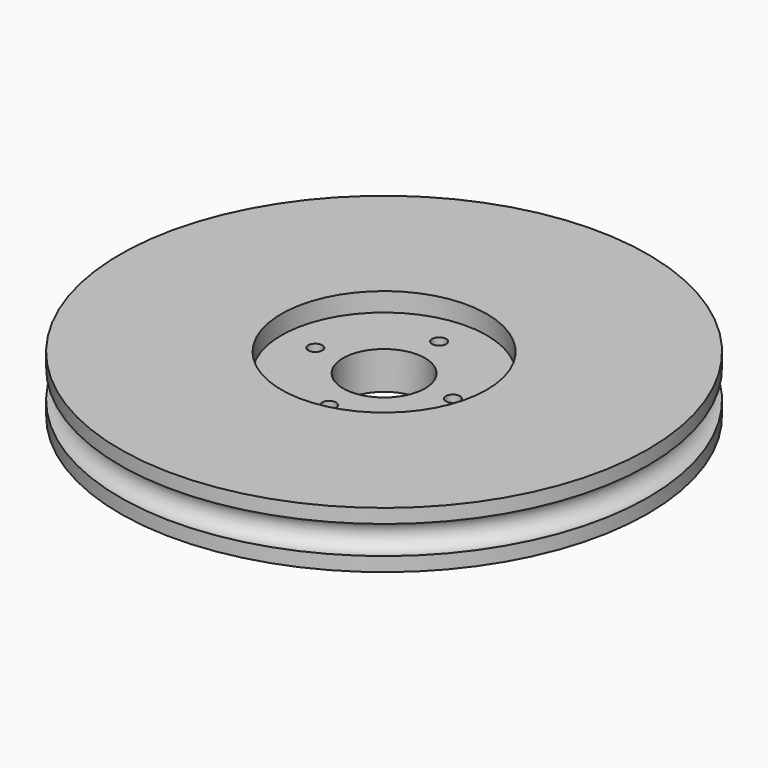
from build123d import *

# Parameters (mm, degrees)
CYLINDER003_R     = 0.75
CYLINDER003_DEPTH = 10
ARRAY_COUNT       = 4
CYLINDER002_R     = 4.35
CYLINDER002_DEPTH = 10
CYLINDER001_R     = 10.9
CYLINDER001_DEPTH = 10
TORUS_R           = 1.5
CYLINDER_R        = 28
CYLINDER_DEPTH    = 6


with BuildPart() as array:
    # Cylinder003 → Cylinder003 (new body)
    with BuildSketch(Plane(origin=(7.3, 0, -5), x_dir=(1, 0, 0), z_dir=(0, 0, 1))):
        Circle(CYLINDER003_R)
    extrude(amount=CYLINDER003_DEPTH)

    # Array: Array ×4 about axis
    array_axis = Axis((0, 0, 0), (0, 0, 1))


with BuildPart() as array_1:
    add(array.part)
    for i in range(1, ARRAY_COUNT):
        add(array.part.rotate(array_axis, i * 360 / ARRAY_COUNT))


with BuildPart() as cilindre001:
    # Cylinder002 → Cylinder002 (new body)
    with BuildSketch(Plane.XY.offset(-4)):
        Circle(CYLINDER002_R)
    extrude(amount=CYLINDER002_DEPTH)


with BuildPart() as cilindre:
    # Cylinder001 → Cylinder001 (new body)
    with BuildSketch(Plane.XY.offset(1)):
        Circle(CYLINDER001_R)
    extrude(amount=CYLINDER001_DEPTH)


with BuildPart() as junta:
    # Torus → Torus (revolve)
    with BuildSketch(Plane.XZ):
        with Locations((28, 0)):
            Circle(TORUS_R)
    revolve(axis=Axis((0, 0, 0), (0, 0, 1)))


with BuildPart() as cut003:
    # Cylinder → Cylinder (new body)
    with BuildSketch(Plane.XY.offset(-3)):
        Circle(CYLINDER_R)
    extrude(amount=CYLINDER_DEPTH)

    # Cut: cut junta
    add(junta.part, mode=Mode.SUBTRACT)

    # Cut001: cut Cilindre
    add(cilindre.part, mode=Mode.SUBTRACT)

    # Cut002: cut Cilindre001
    add(cilindre001.part, mode=Mode.SUBTRACT)

    # Cut003: cut Array
    add(array_1.part, mode=Mode.SUBTRACT)


solid = cut003.part
